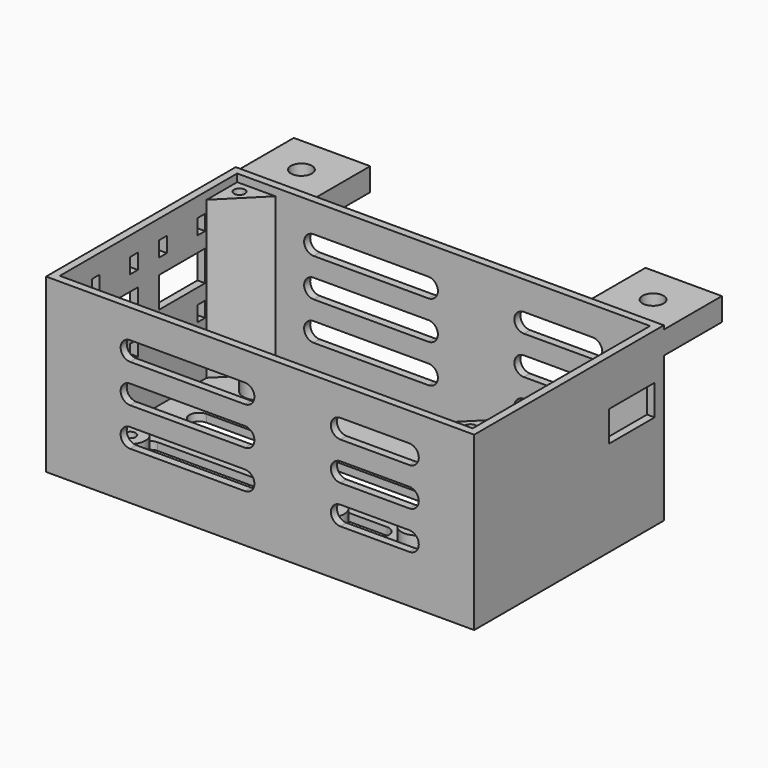
from build123d import *

# Parameters (mm, degrees)
SKETCH_W             = 112
SKETCH_H             = 62
PAD_DEPTH            = 45
THICKNESS_T          = -2
SKETCH001_R          = 4
SKETCH001_R_2        = 1.45
PAD001_DEPTH         = 9
POCKET_DEPTH         = 5
POCKET001_DEPTH      = 31.001
POCKET001_DEPTH_BACK = 31.001
SKETCH004_W          = 15
SKETCH004_H          = 8
POCKET002_DEPTH      = 72.001
SKETCH005_W          = 15
SKETCH005_H          = 8
SKETCH005_W_2        = 2.5
SKETCH005_H_2        = 4
POCKET003_DEPTH      = 40.001
PAD002_DEPTH         = 43
SKETCH007_R          = 1.45
POCKET004_DEPTH      = 10
SKETCH009_W          = 20
SKETCH009_H          = 20
SKETCH009_R          = 2.75
PAD004_DEPTH         = 6


with BuildPart() as part:
    # Sketch → Pad (new body)
    with BuildSketch(Plane.XY):
        with Locations((16, 0)):
            Rectangle(SKETCH_W, SKETCH_H)
    extrude(amount=PAD_DEPTH)

    # Thickness
    thickness_openings = [part.faces().sort_by_distance(p)[0] for p in [
        (16, 0, 45),
    ]]
    offset(amount=THICKNESS_T, openings=thickness_openings, kind=Kind.INTERSECTION)

    # Sketch001 → Pad001 (join)
    with BuildSketch(Plane.XY):
        with Locations((-26, 21)):
            Circle(SKETCH001_R)
        with Locations((-26, 21)):
            Circle(SKETCH001_R_2, mode=Mode.SUBTRACT)
        with Locations((26, 21)):
            Circle(SKETCH001_R)
        with Locations((26, 21)):
            Circle(SKETCH001_R_2, mode=Mode.SUBTRACT)
        with Locations((-26, -21)):
            Circle(SKETCH001_R)
        with Locations((-26, -21)):
            Circle(SKETCH001_R_2, mode=Mode.SUBTRACT)
        with Locations((26, -21)):
            Circle(SKETCH001_R)
        with Locations((26, -21)):
            Circle(SKETCH001_R_2, mode=Mode.SUBTRACT)
        with Locations((62.5, 16)):
            Circle(SKETCH001_R)
        with Locations((62.5, 16)):
            Circle(SKETCH001_R_2, mode=Mode.SUBTRACT)
        with Locations((45, -16)):
            Circle(SKETCH001_R)
        with Locations((45, -16)):
            Circle(SKETCH001_R_2, mode=Mode.SUBTRACT)
    extrude(amount=PAD001_DEPTH)

    # Sketch002 → Pocket (cut)
    with BuildSketch(Plane.XY):
        with BuildLine():
            ThreePointArc((-28, 14.5), (-30.5, 12), (-28, 9.5))
            Line((-28, 9.5), (32, 9.5))
            ThreePointArc((32, 9.5), (34.5, 12), (32, 14.5))
            Line((32, 14.5), (-28, 14.5))
        make_face()
        with BuildLine():
            ThreePointArc((-28, 6.5), (-30.5, 4), (-28, 1.5))
            Line((-28, 1.5), (32, 1.5))
            ThreePointArc((32, 1.5), (34.5, 4), (32, 6.5))
            Line((32, 6.5), (-28, 6.5))
        make_face()
        with BuildLine():
            ThreePointArc((-28, -1.5), (-30.5, -4), (-28, -6.5))
            Line((-28, -6.5), (32, -6.5))
            ThreePointArc((32, -6.5), (34.5, -4), (32, -1.5))
            Line((32, -1.5), (-28, -1.5))
        make_face()
        with BuildLine():
            ThreePointArc((-28, -9.5), (-30.5, -12), (-28, -14.5))
            Line((-28, -14.5), (32, -14.5))
            ThreePointArc((32, -14.5), (34.5, -12), (32, -9.5))
            Line((32, -9.5), (-28, -9.5))
        make_face()
    extrude(amount=POCKET_DEPTH, mode=Mode.SUBTRACT)

    # Sketch003 → Pocket001 (cut, two sides)
    with BuildSketch(Plane.XZ) as pocket001_sk:
        with BuildLine():
            ThreePointArc((-18, 37.5), (-20.5, 35), (-18, 32.5))
            Line((-18, 32.5), (12, 32.5))
            ThreePointArc((12, 32.5), (14.5, 35), (12, 37.5))
            Line((12, 37.5), (-18, 37.5))
        make_face()
        with BuildLine():
            ThreePointArc((-18, 27.5), (-20.5, 25), (-18, 22.5))
            Line((-18, 22.5), (12, 22.5))
            ThreePointArc((12, 22.5), (14.5, 25), (12, 27.5))
            Line((12, 27.5), (-18, 27.5))
        make_face()
        with BuildLine():
            ThreePointArc((-18, 17.5), (-20.5, 15), (-18, 12.5))
            Line((-18, 12.5), (12, 12.5))
            ThreePointArc((12, 12.5), (14.5, 15), (12, 17.5))
            Line((12, 17.5), (-18, 17.5))
        make_face()
        with BuildLine():
            ThreePointArc((37, 37.5), (34.5, 35), (37, 32.5))
            Line((37, 32.5), (55, 32.5))
            ThreePointArc((55, 32.5), (57.5, 35), (55, 37.5))
            Line((55, 37.5), (37, 37.5))
        make_face()
        with BuildLine():
            ThreePointArc((37, 27.5), (34.5, 25), (37, 22.5))
            Line((37, 22.5), (55, 22.5))
            ThreePointArc((55, 22.5), (57.5, 25), (55, 27.5))
            Line((55, 27.5), (37, 27.5))
        make_face()
        with BuildLine():
            ThreePointArc((37, 17.5), (34.5, 15), (37, 12.5))
            Line((37, 12.5), (55, 12.5))
            ThreePointArc((55, 12.5), (57.5, 15), (55, 17.5))
            Line((55, 17.5), (37, 17.5))
        make_face()
    extrude(amount=-POCKET001_DEPTH, mode=Mode.SUBTRACT)
    extrude(pocket001_sk.sketch, amount=POCKET001_DEPTH_BACK, mode=Mode.SUBTRACT)

    # Sketch004 → Pocket002 (cut, through all)
    with BuildSketch(Plane.YZ):
        with Locations((20.5, 29)):
            Rectangle(SKETCH004_W, SKETCH004_H)
    extrude(amount=POCKET002_DEPTH, mode=Mode.SUBTRACT)

    # Sketch005 → Pocket003 (cut, through all)
    with BuildSketch(Plane.YZ):
        with Locations((-11, 28)):
            Rectangle(SKETCH005_W, SKETCH005_H)
        with Locations((11, 28)):
            Rectangle(SKETCH005_W, SKETCH005_H)
        with Locations((-17.25, 38)):
            Rectangle(SKETCH005_W_2, SKETCH005_H_2)
        with Locations((-4.75, 38)):
            Rectangle(SKETCH005_W_2, SKETCH005_H_2)
        with Locations((4.75, 38)):
            Rectangle(SKETCH005_W_2, SKETCH005_H_2)
        with Locations((17.25, 38)):
            Rectangle(SKETCH005_W_2, SKETCH005_H_2)
        with Locations((-17.25, 18)):
            Rectangle(SKETCH005_W_2, SKETCH005_H_2)
        with Locations((-4.75, 18)):
            Rectangle(SKETCH005_W_2, SKETCH005_H_2)
        with Locations((4.75, 18)):
            Rectangle(SKETCH005_W_2, SKETCH005_H_2)
        with Locations((17.25, 18)):
            Rectangle(SKETCH005_W_2, SKETCH005_H_2)
    extrude(amount=-POCKET003_DEPTH, mode=Mode.SUBTRACT)

    # Sketch006 → Pad002 (join)
    with BuildSketch(Plane.XY):
        Polygon((-38, 29), (-28, 29), (-38, 19), align=None)
        Polygon((70, -29), (70, -19), (60, -29), align=None)
    extrude(amount=PAD002_DEPTH)

    # Sketch007 (on DatumPlane) → Pocket004 (cut)
    with BuildSketch(Plane.XY.offset(43)):
        with Locations((-35, 26)):
            Circle(SKETCH007_R)
        with Locations((67, -26)):
            Circle(SKETCH007_R)
    extrude(amount=-POCKET004_DEPTH, mode=Mode.SUBTRACT)

    # Sketch009 (on DatumPlane) → Pad004 (join)
    with BuildSketch(Plane.XY.offset(38)):
        with Locations((-30, 40)):
            Rectangle(SKETCH009_W, SKETCH009_H)
        with Locations((-30, 40)):
            Circle(SKETCH009_R, mode=Mode.SUBTRACT)
        with Locations((62, 40)):
            Rectangle(SKETCH009_W, SKETCH009_H)
        with Locations((62, 40)):
            Circle(SKETCH009_R, mode=Mode.SUBTRACT)
    extrude(amount=PAD004_DEPTH)


solid = part.part
